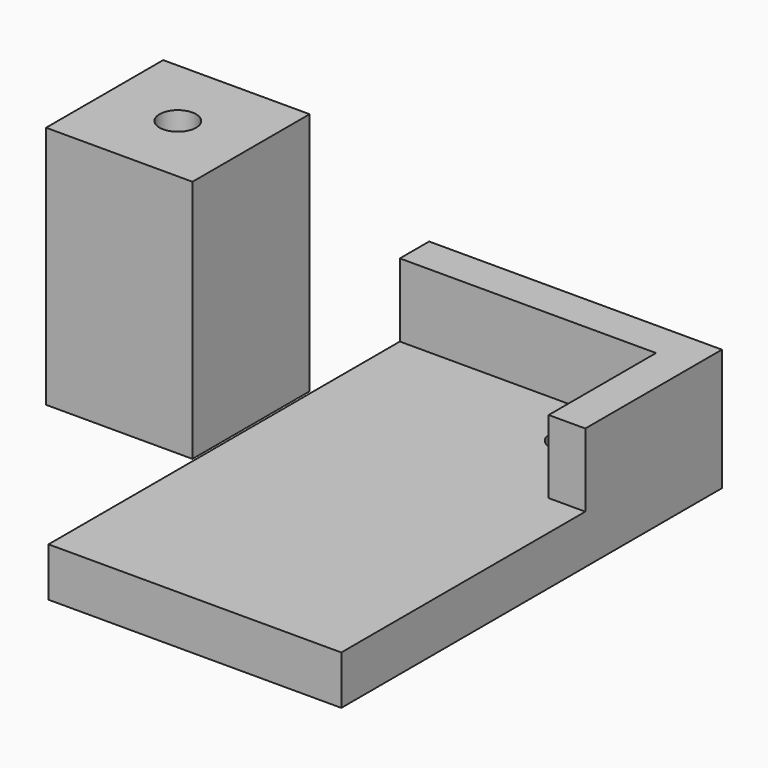
from build123d import *

# Parameters (mm, degrees)
F0_W     = 24
F0_H     = 24
F0_H_2   = 15
F1_DEPTH = 4
F3_DEPTH = 6
F4_W     = 8
F4_H     = 1.5
F5_DEPTH = 2
F6_D     = 3
F7_W     = 12
F7_H     = 12
F8_DEPTH = 20
F10_D    = 3


with BuildPart() as f1:
    # F0 (on Top) → F1 (new body)
    with BuildSketch(Plane.XY):
        Rectangle(F0_W, F0_H)
        with Locations((0, -19.5)):
            Rectangle(F0_W, F0_H_2)
    extrude(amount=F1_DEPTH)

    # F2 (on face) → F3 (join)
    with BuildSketch(Plane.XY.offset(4)):
        Polygon((12, 12), (-12, 12), (-12, 9), (9, 9), (9, -2), (12, -2), align=None)
    extrude(amount=F3_DEPTH)

    # F4 (on face) → F5 (cut)
    with BuildSketch(Plane.XY):
        with Locations((5, 1.75)):
            Rectangle(F4_W, F4_H)
        with Locations((5, 8.25)):
            Rectangle(F4_W, F4_H)
    extrude(amount=F5_DEPTH, mode=Mode.SUBTRACT)

    # F6 (through all)
    with Locations(Plane(origin=(0, 0, 0), x_dir=(1, 0, 0), z_dir=(0, 0, -1))):
        with Locations((5, -5)):
            Hole(F6_D / 2)


with BuildPart() as f8:
    # F7 (on Top) → F8 (new body)
    with BuildSketch(Plane.XY):
        with Locations((-23, 0)):
            Rectangle(F7_W, F7_H)
    extrude(amount=F8_DEPTH)

    # F10 (through all)
    with Locations(Plane(origin=(0, 0, 0), x_dir=(1, 0, 0), z_dir=(0, 0, -1))):
        with Locations((-23, 0)):
            Hole(F10_D / 2)


solid = Compound([f1.part, f8.part])
